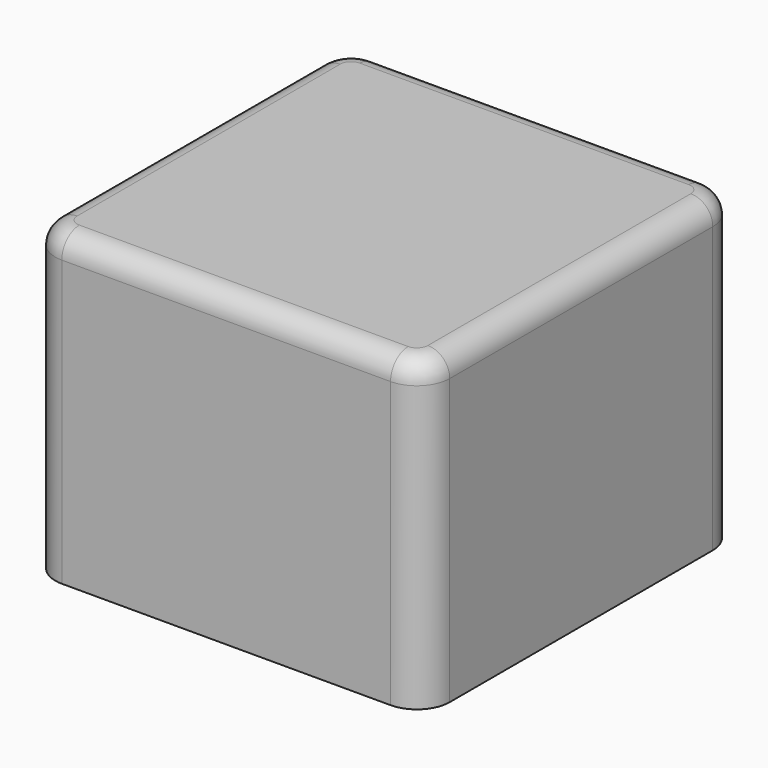
from build123d import *

# Parameters (mm, degrees)
F0_W     = 914.4
F0_H     = 914.4
F1_DEPTH = 711.2
F2_R     = 76.2
F3_R     = 50.8


with BuildPart() as f1:
    # F0 (on Top) → F1 (new body)
    with BuildSketch(Plane.XY):
        with Locations((-698.5, -673.1)):
            Rectangle(F0_W, F0_H)
    extrude(amount=F1_DEPTH)

    # F2
    f2_edges = [f1.edges().sort_by_distance(p)[0] for p in [
        (-1155.7, -1130.3, 355.6),
        (-1155.7, -215.9, 355.6),
        (-241.3, -1130.3, 355.6),
        (-241.3, -215.9, 355.6),
    ]]
    fillet(f2_edges, radius=F2_R)

    # F3
    f3_edges = [f1.edges().sort_by_distance(p)[0] for p in [
        (-698.5, -1130.3, 711.2),
    ]]
    fillet(f3_edges, radius=F3_R)


solid = f1.part
